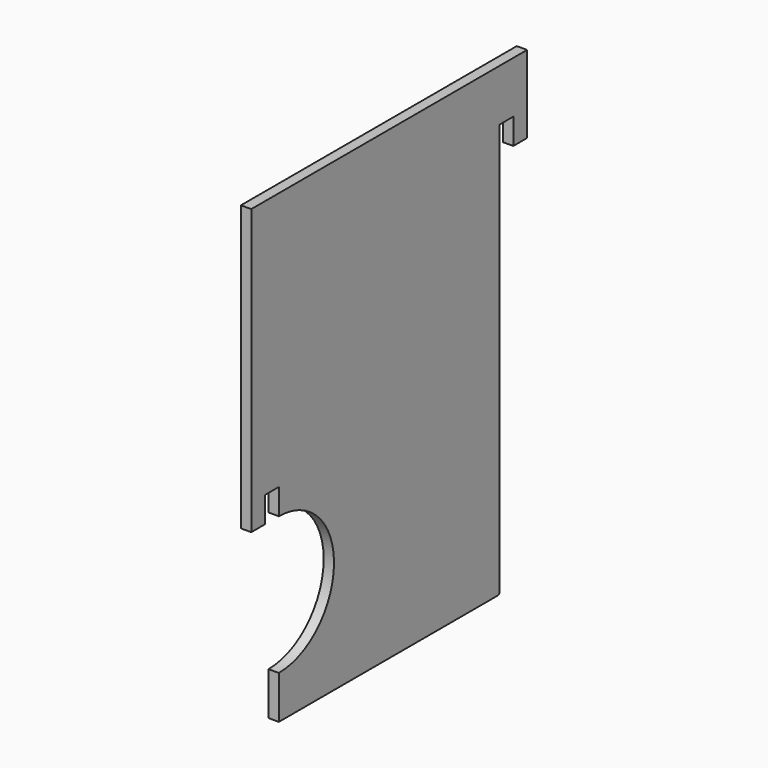
from build123d import *

# Parameters (mm, degrees)
F1_DEPTH = 6


with BuildPart() as f1:
    # F0 (on Right) → F1 (new body)
    with BuildSketch(Plane.YZ):
        with BuildLine():
            Line((-160, 0), (-1.27, 0))
            ThreePointArc((-1.27, 0), (-0.371974, 0.371974), (0, 1.27))
            Line((0, 1.27), (0, 240))
            Line((0, 240), (0, 248.73))
            ThreePointArc((0, 248.73), (-0.371974, 249.628026), (-1.27, 250))
            Line((-1.27, 250), (-158.73, 250))
            ThreePointArc((-158.73, 250), (-159.628026, 249.628026), (-160, 248.73))
            Line((-160, 248.73), (-160, 120))
            Line((-160, 120), (-160, 105))
            ThreePointArc((-160, 105), (-120, 65), (-160, 25))
            Line((-160, 25), (-160, 0))
        make_face()
        with BuildLine():
            Line((0, 248.73), (0, 240))
            Line((0, 240), (10, 240))
            Line((10, 240), (10, 225))
            Line((10, 225), (20, 225))
            Line((20, 225), (20, 270))
            Line((20, 270), (-180, 270))
            Line((-180, 270), (-180, 105))
            Line((-180, 105), (-170, 105))
            Line((-170, 105), (-170, 120))
            Line((-170, 120), (-160, 120))
            Line((-160, 120), (-160, 248.73))
            ThreePointArc((-160, 248.73), (-159.628026, 249.628026), (-158.73, 250))
            Line((-158.73, 250), (-1.27, 250))
            ThreePointArc((-1.27, 250), (-0.371974, 249.628026), (0, 248.73))
        make_face()
    extrude(amount=F1_DEPTH)


solid = f1.part
